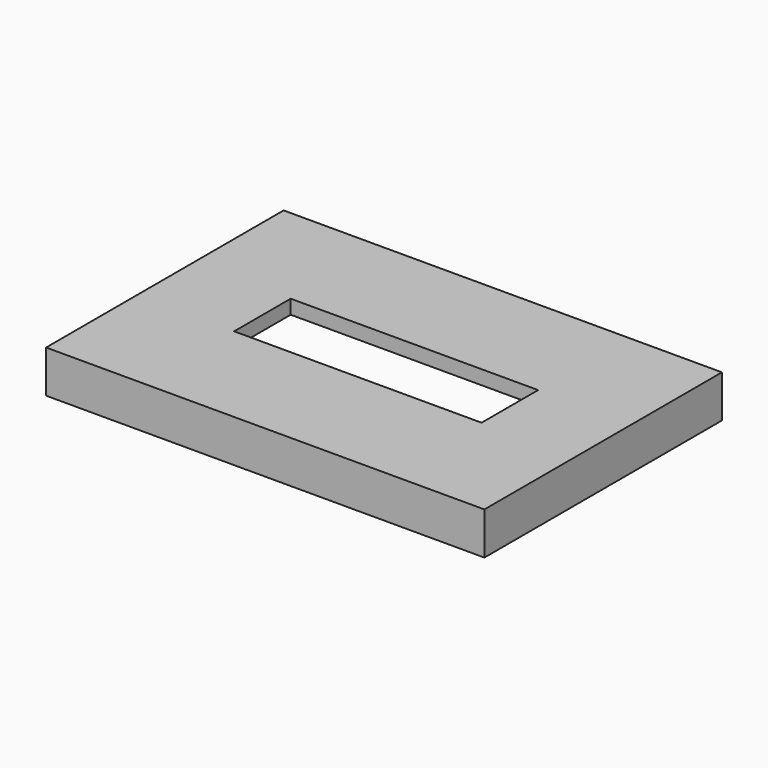
from build123d import *

# Parameters (mm, degrees)
F0_W     = 78.74
F0_H     = 53.34
F1_DEPTH = 7.62
F3_W     = 73.66
F3_H     = 48.26
F4_DEPTH = 5.08
F5_W     = 44.45
F5_H     = 12.7
F6_DEPTH = 25.4
F7_R     = 2.54
F8_DEPTH = 5.08


with BuildPart() as f1:
    # F0 (on Top) → F1 (new body)
    with BuildSketch(Plane.XY):
        Rectangle(F0_W, F0_H)
    extrude(amount=F1_DEPTH)

    # F3 (on face) → F4 (cut)
    with BuildSketch(Plane(origin=(0, 0, 0), x_dir=(1, 0, 0), z_dir=(0, 0, -1))):
        Rectangle(F3_W, F3_H)
    extrude(amount=-F4_DEPTH, mode=Mode.SUBTRACT)

    # F5 (on face) → F6 (cut)
    with BuildSketch(Plane.XY.offset(7.62)):
        with Locations((0.381, 0)):
            Rectangle(F5_W, F5_H)
    extrude(amount=-F6_DEPTH, mode=Mode.SUBTRACT)


with BuildPart() as f8:
    # F7 (on face) → F8 (new body)
    with BuildSketch(Plane(origin=(0, 0, 0), x_dir=(1, 0, 0), z_dir=(0, 0, -1))):
        with Locations((24.13, 11.43)):
            Circle(F7_R)
        with Locations((-24.13, 11.43)):
            Circle(F7_R)
    extrude(amount=-F8_DEPTH)


solid = Compound([f1.part, f8.part])
